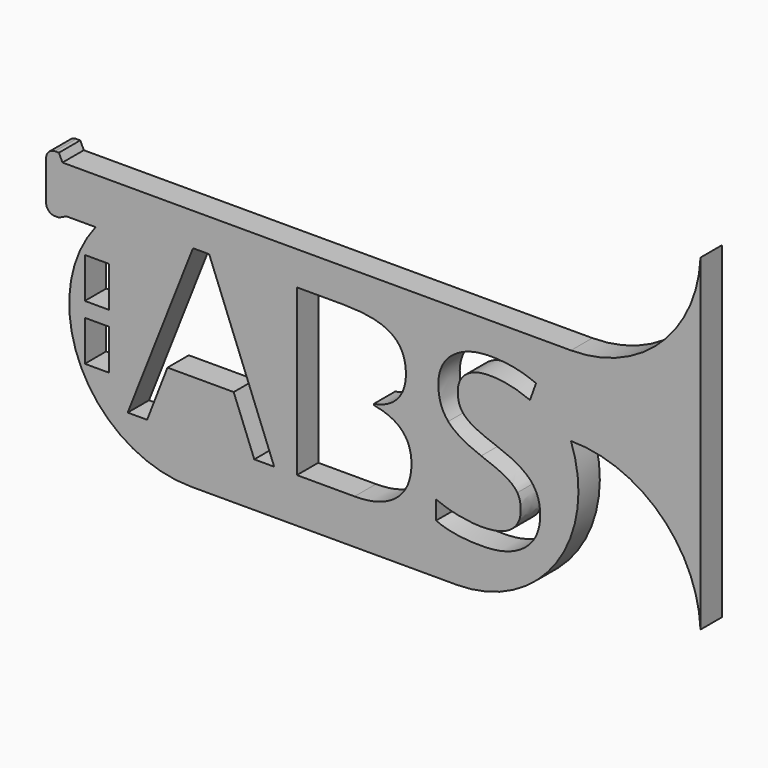
from build123d import *

# Parameters (mm, degrees)
F0_W     = 2.7374038473
F0_H     = 4.5464726281
F1_DEPTH = 3


with BuildPart() as f1:
    # F0 (on Front) → F1 (new body)
    with BuildSketch(Plane.XZ):
        with BuildLine():
            Line((-13.9879264009, 8.4983842463), (-10.7078288449, 8.4983842463))
            ThreePointArc((-10.7078288449, 8.4983842463), (-12.3096819162, -5.9457433928), (0, -13.6704108706))
            Line((0, -13.6704108706), (29.832560569, -13.6704108706))
            ThreePointArc((29.832560569, -13.6704108706), (41.0439649972, -7.8220549805), (42.6626390029, 4.7190275219))
            ThreePointArc((42.6626390029, 4.7190275219), (52.7277631814, 0.6811115523), (57.2114773095, -9.193492122))
            Line((57.2114773095, -9.193492122), (57.2114773095, 27.5829305145))
            ThreePointArc((57.2114773095, 27.5829305145), (52.7277631814, 17.7083268402), (42.6626390029, 13.6704108706))
            Line((42.6626390029, 13.6704108706), (29.832560569, 13.6704108706))
            Line((29.832560569, 13.6704108706), (0, 13.6704108706))
            Line((0, 13.6704108706), (-14.4307379611, 13.6704108706))
            Line((-14.4307379611, 13.6704108706), (-14.8297163701, 14.5122008398))
            Line((-14.8297163701, 14.5122008398), (-15.268201828, 14.5122008398))
            ThreePointArc((-15.268201828, 14.5122008398), (-15.9753086092, 14.219307621), (-16.268201828, 13.5122008398))
            Line((-16.268201828, 13.5122008398), (-16.268201828, 9.0994058373))
            ThreePointArc((-16.268201828, 9.0994058373), (-15.9753086092, 8.3922990562), (-15.268201828, 8.0994058373))
            Line((-15.268201828, 8.0994058373), (-14.8297163701, 8.0994058373))
            Line((-14.8297163701, 8.0994058373), (-13.9879264009, 8.4983842463))
        make_face()
        with Locations((-10.5523099191, -3.12910098)):
            Rectangle(F0_W, F0_H, mode=Mode.SUBTRACT)
        Polygon((9.3416453156, -8.6632125312), (7.1077647943, -8.6632125312), (4.7967138551, -2.7617063542), (-2.6400774802, -2.7617063542), (-4.9226972128, -8.6632125312), (-7.1078385226, -8.6632125312), (0.2274127889, 9.9714126168), (2.0429484125, 9.9714126168), align=None, mode=Mode.SUBTRACT)
        with Locations((-10.5523099191, 3.0826488801)):
            Rectangle(F0_W, F0_H, mode=Mode.SUBTRACT)
        with BuildLine():
            Line((11.8923307107, -8.6632125312), (11.8923307107, 9.8942421988))
            Line((11.8923307107, 9.8942421988), (17.1358575342, 9.8942421988))
            add(Edge.make_bspline(
                [(17.1358575342, 9.8942421988), (20.8278527957, 9.8942421988), (22.4788935809, 8.7894867411)],
                knots=[0, 0, 0, 1, 1, 1], degree=2))
            add(Edge.make_bspline(
                [(22.4788935809, 8.7894867411), (24.1299343662, 7.6847312833), (24.1299343662, 5.300571527)],
                knots=[0, 0, 0, 1, 1, 1], degree=2))
            add(Edge.make_bspline(
                [(24.1299343662, 5.300571527), (24.1299343662, 3.6474999413), (23.2099817515, 2.5752372911)],
                knots=[0, 0, 0, 1, 1, 1], degree=2))
            add(Edge.make_bspline(
                [(23.2099817515, 2.5752372911), (22.2900291369, 1.5029746409), (20.5232327246, 1.1861697669)],
                knots=[0, 0, 0, 1, 1, 1], degree=2))
            Line((20.5232327246, 1.1861697669), (20.5232327246, 1.0602601376))
            add(Edge.make_bspline(
                [(20.5232327246, 1.0602601376), (24.7513593112, 0.3372951689), (24.7513593112, -3.3831312992)],
                knots=[0, 0, 0, 1, 1, 1], degree=2))
            add(Edge.make_bspline(
                [(24.7513593112, -3.3831312992), (24.7513593112, -5.8688310792), (23.0698565188, -7.2660218052)],
                knots=[0, 0, 0, 1, 1, 1], degree=2))
            add(Edge.make_bspline(
                [(23.0698565188, -7.2660218052), (21.3883537265, -8.6632125312), (18.3665226214, -8.6632125312)],
                knots=[0, 0, 0, 1, 1, 1], degree=2))
            Line((18.3665226214, -8.6632125312), (11.8923307107, -8.6632125312))
        make_face(mode=Mode.SUBTRACT)
        with BuildLine():
            add(Edge.make_bspline(
                [(38.1099648282, -0.6293658567), (39.2065970841, -1.8234765353), (39.2065970841, -3.7243057788)],
                knots=[0, 0, 0, 1, 1, 1], degree=2))
            add(Edge.make_bspline(
                [(39.2065970841, -3.7243057788), (39.2065970841, -6.1734511503), (37.4296466694, -7.5462722706)],
                knots=[0, 0, 0, 1, 1, 1], degree=2))
            add(Edge.make_bspline(
                [(37.4296466694, -7.5462722706), (35.6526962548, -8.919093391), (32.606495544, -8.919093391)],
                knots=[0, 0, 0, 1, 1, 1], degree=2))
            add(Edge.make_bspline(
                [(32.606495544, -8.919093391), (29.3084755745, -8.919093391), (27.5294943594, -8.0661571919)],
                knots=[0, 0, 0, 1, 1, 1], degree=2))
            Line((27.5294943594, -8.0661571919), (27.5294943594, -5.9866175067))
            add(Edge.make_bspline(
                [(27.5294943594, -5.9866175067), (28.6748658267, -6.4658864185), (30.0192557403, -6.7461368839)],
                knots=[0, 0, 0, 1, 1, 1], degree=2))
            add(Edge.make_bspline(
                [(30.0192557403, -6.7461368839), (31.363645654, -7.0263873493), (32.683665962, -7.0263873493)],
                knots=[0, 0, 0, 1, 1, 1], degree=2))
            add(Edge.make_bspline(
                [(32.683665962, -7.0263873493), (34.8403760653, -7.0263873493), (35.9329467202, -6.2079747584)],
                knots=[0, 0, 0, 1, 1, 1], degree=2))
            add(Edge.make_bspline(
                [(35.9329467202, -6.2079747584), (37.0255173751, -5.3895621674), (37.0255173751, -3.9273858262)],
                knots=[0, 0, 0, 1, 1, 1], degree=2))
            add(Edge.make_bspline(
                [(37.0255173751, -3.9273858262), (37.0255173751, -2.9647864016), (36.6376344846, -2.349453858)],
                knots=[0, 0, 0, 1, 1, 1], degree=2))
            add(Edge.make_bspline(
                [(36.6376344846, -2.349453858), (36.2497515941, -1.7341213145), (35.3419837823, -1.2122055927)],
                knots=[0, 0, 0, 1, 1, 1], degree=2))
            add(Edge.make_bspline(
                [(35.3419837823, -1.2122055927), (34.4342159705, -0.6902898709), (32.5821259383, -0.0323105174)],
                knots=[0, 0, 0, 1, 1, 1], degree=2))
            add(Edge.make_bspline(
                [(32.5821259383, -0.0323105174), (29.9948861347, 0.8937344987), (28.8840382755, 2.1629847949)],
                knots=[0, 0, 0, 1, 1, 1], degree=2))
            add(Edge.make_bspline(
                [(28.8840382755, 2.1629847949), (27.7731904163, 3.432235091), (27.7731904163, 5.4752203677)],
                knots=[0, 0, 0, 1, 1, 1], degree=2))
            add(Edge.make_bspline(
                [(27.7731904163, 5.4752203677), (27.7731904163, 7.6197456681), (29.383615192, 8.8889959643)],
                knots=[0, 0, 0, 1, 1, 1], degree=2))
            add(Edge.make_bspline(
                [(29.383615192, 8.8889959643), (30.9940399678, 10.1582462604), (33.6503269876, 10.1582462604)],
                knots=[0, 0, 0, 1, 1, 1], degree=2))
            add(Edge.make_bspline(
                [(33.6503269876, 10.1582462604), (36.416277233, 10.1582462604), (38.7395129751, 9.1428460235)],
                knots=[0, 0, 0, 1, 1, 1], degree=2))
            Line((38.7395129751, 9.1428460235), (38.0652872178, 7.2663863857))
            add(Edge.make_bspline(
                [(38.0652872178, 7.2663863857), (35.7664210814, 8.2289858103), (33.5975261753, 8.2289858103)],
                knots=[0, 0, 0, 1, 1, 1], degree=2))
            add(Edge.make_bspline(
                [(33.5975261753, 8.2289858103), (31.8835305753, 8.2289858103), (30.9189003503, 7.4938360387)],
                knots=[0, 0, 0, 1, 1, 1], degree=2))
            add(Edge.make_bspline(
                [(30.9189003503, 7.4938360387), (29.9542701252, 6.7586862672), (29.9542701252, 5.450850762)],
                knots=[0, 0, 0, 1, 1, 1], degree=2))
            add(Edge.make_bspline(
                [(29.9542701252, 5.450850762), (29.9542701252, 4.4882513374), (30.3096602081, 3.8708879934)],
                knots=[0, 0, 0, 1, 1, 1], degree=2))
            add(Edge.make_bspline(
                [(30.3096602081, 3.8708879934), (30.665050291, 3.2535246493), (31.5098632882, 2.7397321294)],
                knots=[0, 0, 0, 1, 1, 1], degree=2))
            add(Edge.make_bspline(
                [(31.5098632882, 2.7397321294), (32.3546762853, 2.2259396096), (34.0930414909, 1.6045146646)],
                knots=[0, 0, 0, 1, 1, 1], degree=2))
            add(Edge.make_bspline(
                [(34.0930414909, 1.6045146646), (37.0133325723, 0.5647448219), (38.1099648282, -0.6293658567)],
                knots=[0, 0, 0, 1, 1, 1], degree=2))
        make_face(mode=Mode.SUBTRACT)
    extrude(amount=F1_DEPTH)


solid = f1.part
